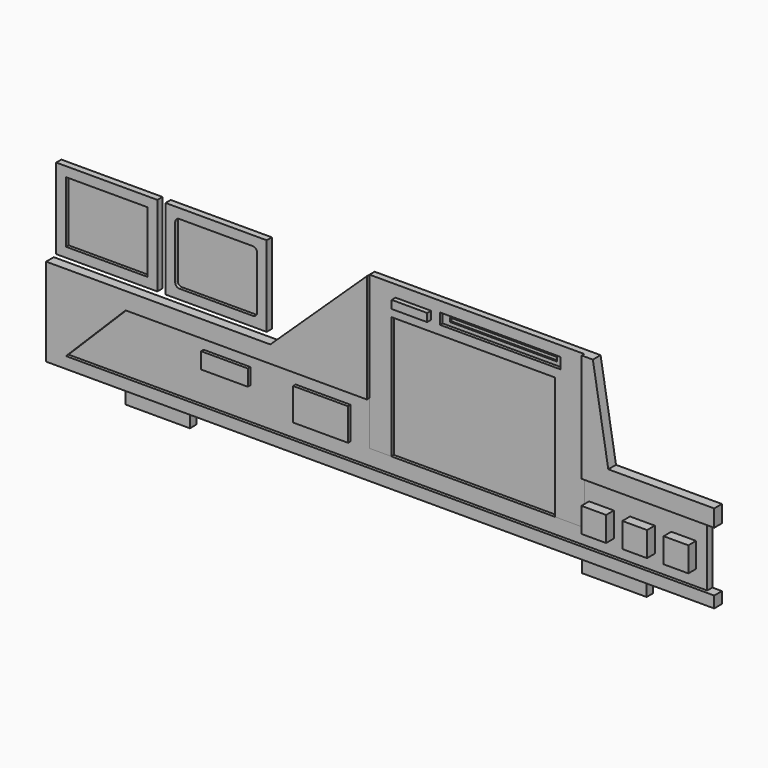
from build123d import *

# Parameters (mm, degrees)
F0_W      = 15.36
F0_H      = 15.36
F1_DEPTH  = 10
F0_W_2    = 50.8
F0_H_2    = 38.1
F0_W_3    = 101.6
F0_H_3    = 76.2
F0_W_4    = 75.1
F0_H_4    = 6.82
F0_W_5    = 22
F0_H_5    = 5
F2_DEPTH  = 2
F3_W      = 66.53
F3_H      = 2.5
F4_DEPTH  = 1
F5_DEPTH  = 4
F6_DEPTH  = 5
F0_W_6    = 62.8
F0_H_6    = 50.1
F7_DEPTH  = 4
F8_R      = 2.5
F9_DEPTH  = 6
F0_W_7    = 34.22
F0_H_7    = 20
F0_W_8    = 29.02
F0_H_8    = 10
F10_DEPTH = 4
F11_DEPTH = 6
F12_W     = 40
F12_H     = 8
F13_DEPTH = 5


with BuildPart() as f1:
    # F0 (on Front) → F1 (new body)
    with BuildSketch(Plane.XZ):
        with Locations((130.7291623282, -30.4200009418)):
            Rectangle(F0_W, F0_H)
        with Locations((105.0850164223, -30.4200009418)):
            Rectangle(F0_W, F0_H)
        with Locations((79.6542178917, -30.4200004709)):
            Rectangle(F0_W, F0_H)
    extrude(amount=F1_DEPTH)


with BuildPart() as f2:
    # F0 (on Front) → F2 (new body)
    with BuildSketch(Plane.XZ):
        with Locations((-227.6345144272, 29.8500025563)):
            Rectangle(F0_W_2, F0_H_2)
        with Locations((-159.7145144272, 29.8500025563)):
            Rectangle(F0_W_2, F0_H_2)
        Rectangle(F0_W_3, F0_H_3)
        with Locations((16.7518402368, 47.0588352716)):
            Rectangle(F0_W_4, F0_H_4)
        with Locations((-37.2341555208, 47.0578887403)):
            Rectangle(F0_W_5, F0_H_5)
    extrude(amount=F2_DEPTH)

    # F3 (on face) → F4 (cut)
    with BuildSketch(Plane.XZ.offset(2)):
        with Locations((17.2950534379, 47.1370157599)):
            Rectangle(F3_W, F3_H)
    extrude(amount=-F4_DEPTH, mode=Mode.SUBTRACT)


with BuildPart() as f5:
    # F0 (on Front) → F5 (new body)
    with BuildSketch(Plane.XZ):
        Polygon((-50.8, -38.1), (-50.8, 38.1), (50.8, 38.1), (50.8, -38.1), (68.974, -38.1), (68.974, -10.59), (68.974, 0), (68.974, 56.87), (-64.45, 56.87), (-64.45, 0), (-64.45, -10.59), (-64.45, -38.1), align=None)
        with Locations((-37.2341555208, 47.0578887403)):
            Rectangle(F0_W_5, F0_H_5, mode=Mode.SUBTRACT)
        with Locations((16.7518402368, 47.0588352716)):
            Rectangle(F0_W_4, F0_H_4, mode=Mode.SUBTRACT)
    extrude(amount=F5_DEPTH)

    # F0 (on Front) → F9 (join)
    with BuildSketch(Plane.XZ):
        Polygon((-214.334, -10.59), (-64.45, -10.59), (-64.45, 0), (-124.45, 0), (-263.734, 0), (-263.734, -10.59), align=None)
        Polygon((-251.384, -47.64), (-214.334, -10.59), (-263.734, -10.59), (-263.734, -47.64), align=None)
        Polygon((-124.45, 0), (-64.45, 0), (-64.45, 56.87), align=None)
        Polygon((68.974, -47.64), (-64.45, -47.64), (-251.384, -47.64), (-263.734, -47.64), (-263.734, -54.7), (151.266, -54.7), (151.266, -47.64), (145.339, -47.64), align=None)
        Polygon((68.974, 56.87), (68.974, 0), (85.4858756065, 0), (75.8961886168, 56.87), align=None)
        Polygon((68.974, 0), (68.974, -10.59), (145.339, -10.59), (151.266, -10.59), (151.266, 0), (85.4858756065, 0), align=None)
    extrude(amount=F9_DEPTH)


with BuildPart() as f6:
    # F6 (new): a face of the model
    f6_faces = [f2.part.faces().sort_by_distance(p)[0] for p in [
        (-37.2341555208, -2, 47.0578887403),
    ]]
    extrude(f6_faces, amount=F6_DEPTH)


with BuildPart() as f7:
    # F0 (on Front) → F7 (new body)
    with BuildSketch(Plane.XZ):
        with Locations((-227.6345144272, 29.8500025563)):
            Rectangle(F0_W_6, F0_H_6)
        with Locations((-227.6345144272, 29.8500025563)):
            Rectangle(F0_W_2, F0_H_2, mode=Mode.SUBTRACT)
        with Locations((-159.7145144272, 29.8500025563)):
            Rectangle(F0_W_6, F0_H_6)
        with Locations((-159.7145144272, 29.8500025563)):
            Rectangle(F0_W_2, F0_H_2, mode=Mode.SUBTRACT)
    extrude(amount=F7_DEPTH)

    # F8
    f8_edges = [f7.edges().sort_by_distance(p)[0] for p in [
        (-134.314514, -2, 48.900003),
        (-185.114514, -2, 48.900003),
        (-134.314514, -2, 10.800003),
        (-185.114514, -2, 10.800003),
    ]]
    fillet(f8_edges, radius=F8_R)


with BuildPart() as f10:
    # F0 (on Front) → F10 (new body)
    with BuildSketch(Plane.XZ):
        Polygon((-64.45, -47.64), (-64.45, -38.1), (-64.45, -10.59), (-214.334, -10.59), (-251.384, -47.64), align=None)
        with Locations((-93.215491517, -28.1000004709)):
            Rectangle(F0_W_7, F0_H_7, mode=Mode.SUBTRACT)
        with Locations((-152.96, -22.69)):
            Rectangle(F0_W_8, F0_H_8, mode=Mode.SUBTRACT)
        Polygon((50.8, -38.1), (-50.8, -38.1), (-64.45, -38.1), (-64.45, -47.64), (68.974, -47.64), (68.974, -38.1), align=None)
        Polygon((68.974, -10.59), (68.974, -38.1), (68.974, -47.64), (145.339, -47.64), (145.339, -10.59), align=None)
        with Locations((79.6542178917, -30.4200004709)):
            Rectangle(F0_W, F0_H, mode=Mode.SUBTRACT)
        with Locations((105.0850164223, -30.4200009418)):
            Rectangle(F0_W, F0_H, mode=Mode.SUBTRACT)
        with Locations((130.7291623282, -30.4200009418)):
            Rectangle(F0_W, F0_H, mode=Mode.SUBTRACT)
    extrude(amount=F10_DEPTH)

    # F0 (on Front) → F11 (join)
    with BuildSketch(Plane.XZ):
        with Locations((-152.96, -22.69)):
            Rectangle(F0_W_8, F0_H_8)
        with Locations((-93.215491517, -28.1000004709)):
            Rectangle(F0_W_7, F0_H_7)
    extrude(amount=F11_DEPTH)


with BuildPart() as f13:
    # F12 (on Front) → F13 (new body)
    with BuildSketch(Plane.XZ):
        with Locations((-195.1909852028, -58.7713040709)):
            Rectangle(F12_W, F12_H)
        with Locations((88.4745162725, -58.7713040709)):
            Rectangle(F12_W, F12_H)
    extrude(amount=F13_DEPTH)


solid = Compound([f1.part, f2.part, f5.part, f6.part, f7.part, f10.part, f13.part])
